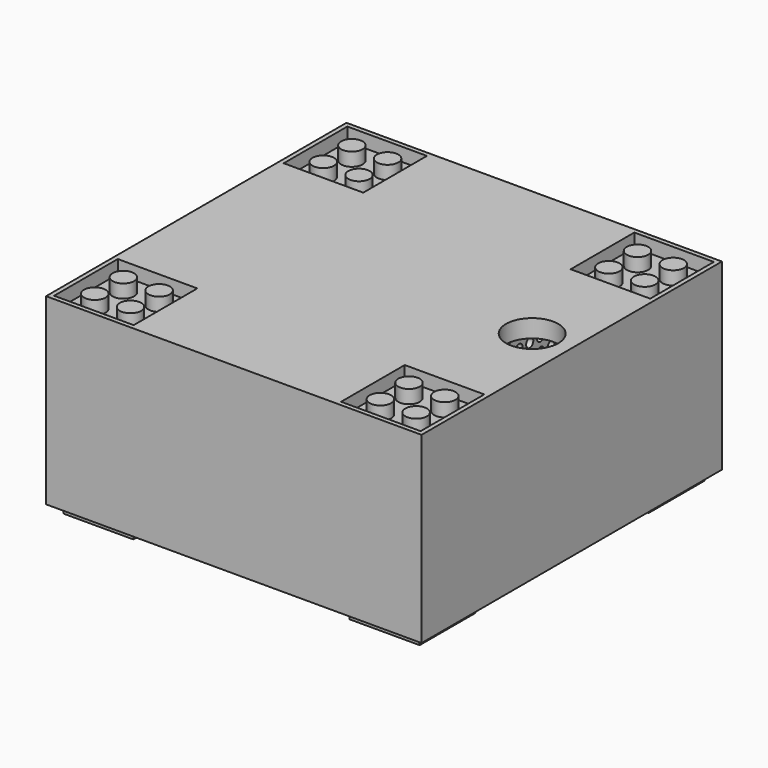
from build123d import *

# Parameters (mm, degrees)
SKETCH_W        = 84
SKETCH_H        = 84
PAD_DEPTH       = 40
SKETCH024_W     = 84
SKETCH024_H     = 84
SKETCH024_W_2   = 79.7
SKETCH024_H_2   = 79.7
POCKET_DEPTH    = 2
SKETCH016_W     = 13.4
SKETCH016_H     = 13.4
SKETCH016_R     = 3.25
POCKET001_DEPTH = 5
SKETCH017_R     = 2.4
PAD001_DEPTH    = 3
SKETCH018_W     = 84
SKETCH018_H     = 84
SKETCH018_W_2   = 17.8
SKETCH018_H_2   = 17.8
PAD002_DEPTH    = 3
SKETCH019_R     = 5.85
POCKET002_DEPTH = 43.001
POCKET003_DEPTH = 39
SKETCH005_W     = 2
SKETCH005_H     = 80
PAD003_DEPTH    = 37
SKETCH021_R     = 2
SKETCH021_R_2   = 2.25
POCKET004_DEPTH = 2
SKETCH025_R     = 2
SKETCH025_R_2   = 1
POCKET005_DEPTH = 2
SKETCH023_R     = 1
POCKET006_DEPTH = 2


with BuildPart() as part:
    # Sketch → Pad (new body)
    with BuildSketch(Plane.XY):
        Rectangle(SKETCH_W, SKETCH_H)
    extrude(amount=PAD_DEPTH)

    # Sketch024 → Pocket (cut)
    with BuildSketch(Plane(origin=(0, 0, 0), x_dir=(1, 0, 0), z_dir=(0, 0, -1))):
        Rectangle(SKETCH024_W, SKETCH024_H)
        Rectangle(SKETCH024_W_2, SKETCH024_H_2, mode=Mode.SUBTRACT)
    extrude(amount=-POCKET_DEPTH, mode=Mode.SUBTRACT)

    # Sketch016 → Pocket001 (cut)
    with BuildSketch(Plane(origin=(0, 0, 0), x_dir=(1, 0, 0), z_dir=(0, 0, -1))):
        with Locations((-31.95, 31.95)):
            Rectangle(SKETCH016_W, SKETCH016_H)
        with Locations((-31.95, 31.95)):
            Circle(SKETCH016_R, mode=Mode.SUBTRACT)
        with Locations((31.95, 31.95)):
            Rectangle(SKETCH016_W, SKETCH016_H)
        with Locations((31.95, 31.95)):
            Circle(SKETCH016_R, mode=Mode.SUBTRACT)
        with Locations((-31.95, -31.95)):
            Rectangle(SKETCH016_W, SKETCH016_H)
        with Locations((-31.95, -31.95)):
            Circle(SKETCH016_R, mode=Mode.SUBTRACT)
        with Locations((31.95, -31.95)):
            Rectangle(SKETCH016_W, SKETCH016_H)
        with Locations((31.95, -31.95)):
            Circle(SKETCH016_R, mode=Mode.SUBTRACT)
    extrude(amount=-POCKET001_DEPTH, mode=Mode.SUBTRACT)

    # Sketch017 → Pad001 (new body)
    with BuildSketch(Plane.XY.offset(40)):
        with Locations((-35.95, -35.95)):
            Circle(SKETCH017_R)
        with Locations((35.95, 35.95)):
            Circle(SKETCH017_R)
        with Locations((35.95, -35.95)):
            Circle(SKETCH017_R)
        with Locations((-35.95, 35.95)):
            Circle(SKETCH017_R)
        with Locations((-27.95, 35.95)):
            Circle(SKETCH017_R)
        with Locations((-27.95, 27.95)):
            Circle(SKETCH017_R)
        with Locations((27.95, 27.95)):
            Circle(SKETCH017_R)
        with Locations((27.95, 35.95)):
            Circle(SKETCH017_R)
        with Locations((-35.95, 27.95)):
            Circle(SKETCH017_R)
        with Locations((35.95, 27.95)):
            Circle(SKETCH017_R)
        with Locations((27.95, -27.95)):
            Circle(SKETCH017_R)
        with Locations((27.95, -35.95)):
            Circle(SKETCH017_R)
        with Locations((35.95, -27.95)):
            Circle(SKETCH017_R)
        with Locations((-27.95, -27.95)):
            Circle(SKETCH017_R)
        with Locations((-27.95, -35.95)):
            Circle(SKETCH017_R)
        with Locations((-35.95, -27.95)):
            Circle(SKETCH017_R)
    extrude(amount=PAD001_DEPTH)

    # Sketch018 → Pad002 (new body)
    with BuildSketch(Plane.XY.offset(40)):
        Rectangle(SKETCH018_W, SKETCH018_H)
        with Locations((-32.1, 32.1)):
            Rectangle(SKETCH018_W_2, SKETCH018_H_2, mode=Mode.SUBTRACT)
        with Locations((-32.1, -32.1)):
            Rectangle(SKETCH018_W_2, SKETCH018_H_2, mode=Mode.SUBTRACT)
        with Locations((32.1, 32.1)):
            Rectangle(SKETCH018_W_2, SKETCH018_H_2, mode=Mode.SUBTRACT)
        with Locations((32.1, -32.1)):
            Rectangle(SKETCH018_W_2, SKETCH018_H_2, mode=Mode.SUBTRACT)
    extrude(amount=PAD002_DEPTH)

    # Sketch019 → Pocket002 (cut, through all)
    with BuildSketch(Plane.XY.offset(43)):
        with Locations((33.15, 0)):
            Circle(SKETCH019_R)
    extrude(amount=-POCKET002_DEPTH, mode=Mode.SUBTRACT)

    # Sketch009 → Pocket003 (cut)
    with BuildSketch(Plane(origin=(0, 0, 0), x_dir=(1, 0, 0), z_dir=(0, 0, -1))):
        Polygon((-24.2, 40), (-24.2, 24.2), (-40, 24.2), (-40, -24.2), (-24.2, -24.2), (-24.2, -40), (24.2, -40), (24.2, -24.2), (40, -24.2), (40, 24.2), (24.2, 24.2), (24.2, 40), align=None)
    extrude(amount=-POCKET003_DEPTH, mode=Mode.SUBTRACT)

    # Sketch005 → Pad003 (new body)
    with BuildSketch(Plane(origin=(0, 0, 39), x_dir=(1, 0, 0), z_dir=(0, 0, -1))):
        with Locations((23.2, 0)):
            Rectangle(SKETCH005_W, SKETCH005_H)
        Rectangle(SKETCH005_W, SKETCH005_H)
        with Locations((-23.2, 0)):
            Rectangle(SKETCH005_W, SKETCH005_H)
    extrude(amount=PAD003_DEPTH)

    # Sketch021 → Pocket004 (cut)
    with BuildSketch(Plane.YZ.offset(-22.2)):
        with Locations((-22, 5)):
            Circle(SKETCH021_R)
        with Locations((-17.1, 5)):
            Circle(SKETCH021_R)
        with Locations((-12.2, 5)):
            Circle(SKETCH021_R)
        with Locations((-7.3, 5)):
            Circle(SKETCH021_R)
        with Locations((-2.4, 5)):
            Circle(SKETCH021_R)
        with Locations((2.5, 5)):
            Circle(SKETCH021_R)
        with Locations((7.4, 5)):
            Circle(SKETCH021_R)
        with Locations((12.3, 5)):
            Circle(SKETCH021_R)
        with Locations((17.2, 5)):
            Circle(SKETCH021_R)
        with Locations((22.1, 5)):
            Circle(SKETCH021_R)
        with Locations((-22, 10)):
            Circle(SKETCH021_R)
        with Locations((-17.1, 10)):
            Circle(SKETCH021_R)
        with Locations((-12.2, 10)):
            Circle(SKETCH021_R)
        with Locations((-7.3, 10)):
            Circle(SKETCH021_R)
        with Locations((-2.4, 10)):
            Circle(SKETCH021_R)
        with Locations((2.5, 10)):
            Circle(SKETCH021_R)
        with Locations((7.4, 10)):
            Circle(SKETCH021_R)
        with Locations((12.3, 10)):
            Circle(SKETCH021_R)
        with Locations((17.2, 10)):
            Circle(SKETCH021_R)
        with Locations((22.1, 10)):
            Circle(SKETCH021_R)
        with Locations((-22, 15)):
            Circle(SKETCH021_R)
        with Locations((-17.1, 15)):
            Circle(SKETCH021_R)
        with Locations((-12.2, 15)):
            Circle(SKETCH021_R)
        with Locations((-7.3, 15)):
            Circle(SKETCH021_R)
        with Locations((-2.4, 15)):
            Circle(SKETCH021_R)
        with Locations((2.5, 15)):
            Circle(SKETCH021_R)
        with Locations((7.4, 15)):
            Circle(SKETCH021_R)
        with Locations((12.3, 15)):
            Circle(SKETCH021_R)
        with Locations((17.2, 15)):
            Circle(SKETCH021_R)
        with Locations((22.1, 15)):
            Circle(SKETCH021_R)
        with Locations((-21.5, 20.25)):
            Circle(SKETCH021_R_2)
        with Locations((-15.35, 20.25)):
            Circle(SKETCH021_R_2)
        with Locations((-9.2, 20.25)):
            Circle(SKETCH021_R_2)
        with Locations((-3.05, 20.25)):
            Circle(SKETCH021_R_2)
        with Locations((3.1, 20.25)):
            Circle(SKETCH021_R_2)
        with Locations((9.25, 20.25)):
            Circle(SKETCH021_R_2)
        with Locations((15.4, 20.25)):
            Circle(SKETCH021_R_2)
        with Locations((21.55, 20.25)):
            Circle(SKETCH021_R_2)
        with Locations((-21.5, 25.75)):
            Circle(SKETCH021_R_2)
        with Locations((-15.35, 25.75)):
            Circle(SKETCH021_R_2)
        with Locations((-9.2, 25.75)):
            Circle(SKETCH021_R_2)
        with Locations((-3.05, 25.75)):
            Circle(SKETCH021_R_2)
        with Locations((3.1, 25.75)):
            Circle(SKETCH021_R_2)
        with Locations((9.25, 25.75)):
            Circle(SKETCH021_R_2)
        with Locations((15.4, 25.75)):
            Circle(SKETCH021_R_2)
        with Locations((21.55, 25.75)):
            Circle(SKETCH021_R_2)
        with Locations((-21.5, 31.25)):
            Circle(SKETCH021_R_2)
        with Locations((-15.35, 31.25)):
            Circle(SKETCH021_R_2)
        with Locations((-9.2, 31.25)):
            Circle(SKETCH021_R_2)
        with Locations((-3.05, 31.25)):
            Circle(SKETCH021_R_2)
        with Locations((3.1, 31.25)):
            Circle(SKETCH021_R_2)
        with Locations((9.25, 31.25)):
            Circle(SKETCH021_R_2)
        with Locations((15.4, 31.25)):
            Circle(SKETCH021_R_2)
        with Locations((21.55, 31.25)):
            Circle(SKETCH021_R_2)
        with Locations((-21.5, 36.75)):
            Circle(SKETCH021_R_2)
        with Locations((-15.35, 36.75)):
            Circle(SKETCH021_R_2)
        with Locations((-9.2, 36.75)):
            Circle(SKETCH021_R_2)
        with Locations((-3.05, 36.75)):
            Circle(SKETCH021_R_2)
        with Locations((3.1, 36.75)):
            Circle(SKETCH021_R_2)
        with Locations((9.25, 36.75)):
            Circle(SKETCH021_R_2)
        with Locations((15.4, 36.75)):
            Circle(SKETCH021_R_2)
        with Locations((21.55, 36.75)):
            Circle(SKETCH021_R_2)
    extrude(amount=-POCKET004_DEPTH, mode=Mode.SUBTRACT)

    # Sketch025 → Pocket005 (cut)
    with BuildSketch(Plane.YZ.offset(1)):
        with Locations((-37.5, 19)):
            Circle(SKETCH025_R)
        with Locations((-32.5, 19)):
            Circle(SKETCH025_R)
        with Locations((-27.5, 19)):
            Circle(SKETCH025_R)
        with Locations((-22.5, 19)):
            Circle(SKETCH025_R)
        with Locations((-17.5, 19)):
            Circle(SKETCH025_R)
        with Locations((-12.5, 19)):
            Circle(SKETCH025_R)
        with Locations((-7.5, 19)):
            Circle(SKETCH025_R)
        with Locations((-2.5, 19)):
            Circle(SKETCH025_R)
        with Locations((2.5, 19)):
            Circle(SKETCH025_R)
        with Locations((7.5, 19)):
            Circle(SKETCH025_R)
        with Locations((12.5, 19)):
            Circle(SKETCH025_R)
        with Locations((17.5, 19)):
            Circle(SKETCH025_R)
        with Locations((22.5, 19)):
            Circle(SKETCH025_R)
        with Locations((27.5, 19)):
            Circle(SKETCH025_R)
        with Locations((32.5, 19)):
            Circle(SKETCH025_R)
        with Locations((37.5, 19)):
            Circle(SKETCH025_R)
        with Locations((-37.5, 23.5)):
            Circle(SKETCH025_R)
        with Locations((-32.5, 23.5)):
            Circle(SKETCH025_R)
        with Locations((-27.5, 23.5)):
            Circle(SKETCH025_R)
        with Locations((-22.5, 23.5)):
            Circle(SKETCH025_R)
        with Locations((-17.5, 23.5)):
            Circle(SKETCH025_R)
        with Locations((-12.5, 23.5)):
            Circle(SKETCH025_R)
        with Locations((-7.5, 23.5)):
            Circle(SKETCH025_R)
        with Locations((-2.5, 23.5)):
            Circle(SKETCH025_R)
        with Locations((2.5, 23.5)):
            Circle(SKETCH025_R)
        with Locations((7.5, 23.5)):
            Circle(SKETCH025_R)
        with Locations((12.5, 23.5)):
            Circle(SKETCH025_R)
        with Locations((17.5, 23.5)):
            Circle(SKETCH025_R)
        with Locations((22.5, 23.5)):
            Circle(SKETCH025_R)
        with Locations((27.5, 23.5)):
            Circle(SKETCH025_R)
        with Locations((32.5, 23.5)):
            Circle(SKETCH025_R)
        with Locations((37.5, 23.5)):
            Circle(SKETCH025_R)
        with Locations((-37.5, 28)):
            Circle(SKETCH025_R)
        with Locations((-32.5, 28)):
            Circle(SKETCH025_R)
        with Locations((-27.5, 28)):
            Circle(SKETCH025_R)
        with Locations((-22.5, 28)):
            Circle(SKETCH025_R)
        with Locations((-17.5, 28)):
            Circle(SKETCH025_R)
        with Locations((-12.5, 28)):
            Circle(SKETCH025_R)
        with Locations((-7.5, 28)):
            Circle(SKETCH025_R)
        with Locations((-2.5, 28)):
            Circle(SKETCH025_R)
        with Locations((2.5, 28)):
            Circle(SKETCH025_R)
        with Locations((7.5, 28)):
            Circle(SKETCH025_R)
        with Locations((12.5, 28)):
            Circle(SKETCH025_R)
        with Locations((17.5, 28)):
            Circle(SKETCH025_R)
        with Locations((22.5, 28)):
            Circle(SKETCH025_R)
        with Locations((27.5, 28)):
            Circle(SKETCH025_R)
        with Locations((32.5, 28)):
            Circle(SKETCH025_R)
        with Locations((37.5, 28)):
            Circle(SKETCH025_R)
        with Locations((-37.5, 32.5)):
            Circle(SKETCH025_R)
        with Locations((-32.5, 32.5)):
            Circle(SKETCH025_R)
        with Locations((-27.5, 32.5)):
            Circle(SKETCH025_R)
        with Locations((-22.5, 32.5)):
            Circle(SKETCH025_R)
        with Locations((-17.5, 32.5)):
            Circle(SKETCH025_R)
        with Locations((-12.5, 32.5)):
            Circle(SKETCH025_R)
        with Locations((-7.5, 32.5)):
            Circle(SKETCH025_R)
        with Locations((-2.5, 32.5)):
            Circle(SKETCH025_R)
        with Locations((2.5, 32.5)):
            Circle(SKETCH025_R)
        with Locations((7.5, 32.5)):
            Circle(SKETCH025_R)
        with Locations((12.5, 32.5)):
            Circle(SKETCH025_R)
        with Locations((17.5, 32.5)):
            Circle(SKETCH025_R)
        with Locations((22.5, 32.5)):
            Circle(SKETCH025_R)
        with Locations((27.5, 32.5)):
            Circle(SKETCH025_R)
        with Locations((32.5, 32.5)):
            Circle(SKETCH025_R)
        with Locations((37.5, 32.5)):
            Circle(SKETCH025_R)
        with Locations((-37.5, 37)):
            Circle(SKETCH025_R)
        with Locations((-32.5, 37)):
            Circle(SKETCH025_R)
        with Locations((-27.5, 37)):
            Circle(SKETCH025_R)
        with Locations((-22.5, 37)):
            Circle(SKETCH025_R)
        with Locations((-17.5, 37)):
            Circle(SKETCH025_R)
        with Locations((-12.5, 37)):
            Circle(SKETCH025_R)
        with Locations((-7.5, 37)):
            Circle(SKETCH025_R)
        with Locations((-2.5, 37)):
            Circle(SKETCH025_R)
        with Locations((2.5, 37)):
            Circle(SKETCH025_R)
        with Locations((7.5, 37)):
            Circle(SKETCH025_R)
        with Locations((12.5, 37)):
            Circle(SKETCH025_R)
        with Locations((17.5, 37)):
            Circle(SKETCH025_R)
        with Locations((22.5, 37)):
            Circle(SKETCH025_R)
        with Locations((27.5, 37)):
            Circle(SKETCH025_R)
        with Locations((32.5, 37)):
            Circle(SKETCH025_R)
        with Locations((37.5, 37)):
            Circle(SKETCH025_R)
        with Locations((-39, 3.5)):
            Circle(SKETCH025_R_2)
        with Locations((-36, 3.5)):
            Circle(SKETCH025_R_2)
        with Locations((-33, 3.5)):
            Circle(SKETCH025_R_2)
        with Locations((-30, 3.5)):
            Circle(SKETCH025_R_2)
        with Locations((-27, 3.5)):
            Circle(SKETCH025_R_2)
        with Locations((-24, 3.5)):
            Circle(SKETCH025_R_2)
        with Locations((-21, 3.5)):
            Circle(SKETCH025_R_2)
        with Locations((-18, 3.5)):
            Circle(SKETCH025_R_2)
        with Locations((-15, 3.5)):
            Circle(SKETCH025_R_2)
        with Locations((-12, 3.5)):
            Circle(SKETCH025_R_2)
        with Locations((-9, 3.5)):
            Circle(SKETCH025_R_2)
        with Locations((-6, 3.5)):
            Circle(SKETCH025_R_2)
        with Locations((-3, 3.5)):
            Circle(SKETCH025_R_2)
        with Locations((0, 3.5)):
            Circle(SKETCH025_R_2)
        with Locations((3, 3.5)):
            Circle(SKETCH025_R_2)
        with Locations((6, 3.5)):
            Circle(SKETCH025_R_2)
        with Locations((9, 3.5)):
            Circle(SKETCH025_R_2)
        with Locations((12, 3.5)):
            Circle(SKETCH025_R_2)
        with Locations((15, 3.5)):
            Circle(SKETCH025_R_2)
        with Locations((18, 3.5)):
            Circle(SKETCH025_R_2)
        with Locations((21, 3.5)):
            Circle(SKETCH025_R_2)
        with Locations((24, 3.5)):
            Circle(SKETCH025_R_2)
        with Locations((27, 3.5)):
            Circle(SKETCH025_R_2)
        with Locations((30, 3.5)):
            Circle(SKETCH025_R_2)
        with Locations((33, 3.5)):
            Circle(SKETCH025_R_2)
        with Locations((36, 3.5)):
            Circle(SKETCH025_R_2)
        with Locations((39, 3.5)):
            Circle(SKETCH025_R_2)
        with Locations((-39, 6.5)):
            Circle(SKETCH025_R_2)
        with Locations((-36, 6.5)):
            Circle(SKETCH025_R_2)
        with Locations((-33, 6.5)):
            Circle(SKETCH025_R_2)
        with Locations((-30, 6.5)):
            Circle(SKETCH025_R_2)
        with Locations((-27, 6.5)):
            Circle(SKETCH025_R_2)
        with Locations((-24, 6.5)):
            Circle(SKETCH025_R_2)
        with Locations((-21, 6.5)):
            Circle(SKETCH025_R_2)
        with Locations((-18, 6.5)):
            Circle(SKETCH025_R_2)
        with Locations((-15, 6.5)):
            Circle(SKETCH025_R_2)
        with Locations((-12, 6.5)):
            Circle(SKETCH025_R_2)
        with Locations((-9, 6.5)):
            Circle(SKETCH025_R_2)
        with Locations((-6, 6.5)):
            Circle(SKETCH025_R_2)
        with Locations((-3, 6.5)):
            Circle(SKETCH025_R_2)
        with Locations((0, 6.5)):
            Circle(SKETCH025_R_2)
        with Locations((3, 6.5)):
            Circle(SKETCH025_R_2)
        with Locations((6, 6.5)):
            Circle(SKETCH025_R_2)
        with Locations((9, 6.5)):
            Circle(SKETCH025_R_2)
        with Locations((12, 6.5)):
            Circle(SKETCH025_R_2)
        with Locations((15, 6.5)):
            Circle(SKETCH025_R_2)
        with Locations((18, 6.5)):
            Circle(SKETCH025_R_2)
        with Locations((21, 6.5)):
            Circle(SKETCH025_R_2)
        with Locations((24, 6.5)):
            Circle(SKETCH025_R_2)
        with Locations((27, 6.5)):
            Circle(SKETCH025_R_2)
        with Locations((30, 6.5)):
            Circle(SKETCH025_R_2)
        with Locations((33, 6.5)):
            Circle(SKETCH025_R_2)
        with Locations((36, 6.5)):
            Circle(SKETCH025_R_2)
        with Locations((39, 6.5)):
            Circle(SKETCH025_R_2)
        with Locations((-39, 9.5)):
            Circle(SKETCH025_R_2)
        with Locations((-36, 9.5)):
            Circle(SKETCH025_R_2)
        with Locations((-33, 9.5)):
            Circle(SKETCH025_R_2)
        with Locations((-30, 9.5)):
            Circle(SKETCH025_R_2)
        with Locations((-27, 9.5)):
            Circle(SKETCH025_R_2)
        with Locations((-24, 9.5)):
            Circle(SKETCH025_R_2)
        with Locations((-21, 9.5)):
            Circle(SKETCH025_R_2)
        with Locations((-18, 9.5)):
            Circle(SKETCH025_R_2)
        with Locations((-15, 9.5)):
            Circle(SKETCH025_R_2)
        with Locations((-12, 9.5)):
            Circle(SKETCH025_R_2)
        with Locations((-9, 9.5)):
            Circle(SKETCH025_R_2)
        with Locations((-6, 9.5)):
            Circle(SKETCH025_R_2)
        with Locations((-3, 9.5)):
            Circle(SKETCH025_R_2)
        with Locations((0, 9.5)):
            Circle(SKETCH025_R_2)
        with Locations((3, 9.5)):
            Circle(SKETCH025_R_2)
        with Locations((6, 9.5)):
            Circle(SKETCH025_R_2)
        with Locations((9, 9.5)):
            Circle(SKETCH025_R_2)
        with Locations((12, 9.5)):
            Circle(SKETCH025_R_2)
        with Locations((15, 9.5)):
            Circle(SKETCH025_R_2)
        with Locations((18, 9.5)):
            Circle(SKETCH025_R_2)
        with Locations((21, 9.5)):
            Circle(SKETCH025_R_2)
        with Locations((24, 9.5)):
            Circle(SKETCH025_R_2)
        with Locations((27, 9.5)):
            Circle(SKETCH025_R_2)
        with Locations((30, 9.5)):
            Circle(SKETCH025_R_2)
        with Locations((33, 9.5)):
            Circle(SKETCH025_R_2)
        with Locations((36, 9.5)):
            Circle(SKETCH025_R_2)
        with Locations((39, 9.5)):
            Circle(SKETCH025_R_2)
        with Locations((-39, 12.5)):
            Circle(SKETCH025_R_2)
        with Locations((-36, 12.5)):
            Circle(SKETCH025_R_2)
        with Locations((-33, 12.5)):
            Circle(SKETCH025_R_2)
        with Locations((-30, 12.5)):
            Circle(SKETCH025_R_2)
        with Locations((-27, 12.5)):
            Circle(SKETCH025_R_2)
        with Locations((-24, 12.5)):
            Circle(SKETCH025_R_2)
        with Locations((-21, 12.5)):
            Circle(SKETCH025_R_2)
        with Locations((-18, 12.5)):
            Circle(SKETCH025_R_2)
        with Locations((-15, 12.5)):
            Circle(SKETCH025_R_2)
        with Locations((-12, 12.5)):
            Circle(SKETCH025_R_2)
        with Locations((-9, 12.5)):
            Circle(SKETCH025_R_2)
        with Locations((-6, 12.5)):
            Circle(SKETCH025_R_2)
        with Locations((-3, 12.5)):
            Circle(SKETCH025_R_2)
        with Locations((0, 12.5)):
            Circle(SKETCH025_R_2)
        with Locations((3, 12.5)):
            Circle(SKETCH025_R_2)
        with Locations((6, 12.5)):
            Circle(SKETCH025_R_2)
        with Locations((9, 12.5)):
            Circle(SKETCH025_R_2)
        with Locations((12, 12.5)):
            Circle(SKETCH025_R_2)
        with Locations((15, 12.5)):
            Circle(SKETCH025_R_2)
        with Locations((18, 12.5)):
            Circle(SKETCH025_R_2)
        with Locations((21, 12.5)):
            Circle(SKETCH025_R_2)
        with Locations((24, 12.5)):
            Circle(SKETCH025_R_2)
        with Locations((27, 12.5)):
            Circle(SKETCH025_R_2)
        with Locations((30, 12.5)):
            Circle(SKETCH025_R_2)
        with Locations((33, 12.5)):
            Circle(SKETCH025_R_2)
        with Locations((36, 12.5)):
            Circle(SKETCH025_R_2)
        with Locations((39, 12.5)):
            Circle(SKETCH025_R_2)
        with Locations((-39, 15.5)):
            Circle(SKETCH025_R_2)
        with Locations((-36, 15.5)):
            Circle(SKETCH025_R_2)
        with Locations((-33, 15.5)):
            Circle(SKETCH025_R_2)
        with Locations((-30, 15.5)):
            Circle(SKETCH025_R_2)
        with Locations((-27, 15.5)):
            Circle(SKETCH025_R_2)
        with Locations((-24, 15.5)):
            Circle(SKETCH025_R_2)
        with Locations((-21, 15.5)):
            Circle(SKETCH025_R_2)
        with Locations((-18, 15.5)):
            Circle(SKETCH025_R_2)
        with Locations((-15, 15.5)):
            Circle(SKETCH025_R_2)
        with Locations((-12, 15.5)):
            Circle(SKETCH025_R_2)
        with Locations((-9, 15.5)):
            Circle(SKETCH025_R_2)
        with Locations((-6, 15.5)):
            Circle(SKETCH025_R_2)
        with Locations((-3, 15.5)):
            Circle(SKETCH025_R_2)
        with Locations((0, 15.5)):
            Circle(SKETCH025_R_2)
        with Locations((3, 15.5)):
            Circle(SKETCH025_R_2)
        with Locations((6, 15.5)):
            Circle(SKETCH025_R_2)
        with Locations((9, 15.5)):
            Circle(SKETCH025_R_2)
        with Locations((12, 15.5)):
            Circle(SKETCH025_R_2)
        with Locations((15, 15.5)):
            Circle(SKETCH025_R_2)
        with Locations((18, 15.5)):
            Circle(SKETCH025_R_2)
        with Locations((21, 15.5)):
            Circle(SKETCH025_R_2)
        with Locations((24, 15.5)):
            Circle(SKETCH025_R_2)
        with Locations((27, 15.5)):
            Circle(SKETCH025_R_2)
        with Locations((30, 15.5)):
            Circle(SKETCH025_R_2)
        with Locations((33, 15.5)):
            Circle(SKETCH025_R_2)
        with Locations((36, 15.5)):
            Circle(SKETCH025_R_2)
        with Locations((39, 15.5)):
            Circle(SKETCH025_R_2)
    extrude(amount=-POCKET005_DEPTH, mode=Mode.SUBTRACT)

    # Sketch023 → Pocket006 (cut)
    with BuildSketch(Plane.YZ.offset(24.2)):
        with Locations((-22.5, 4)):
            Circle(SKETCH023_R)
        with Locations((-19.5, 4)):
            Circle(SKETCH023_R)
        with Locations((-16.5, 4)):
            Circle(SKETCH023_R)
        with Locations((-13.5, 4)):
            Circle(SKETCH023_R)
        with Locations((-10.5, 4)):
            Circle(SKETCH023_R)
        with Locations((-7.5, 4)):
            Circle(SKETCH023_R)
        with Locations((-4.5, 4)):
            Circle(SKETCH023_R)
        with Locations((-1.5, 4)):
            Circle(SKETCH023_R)
        with Locations((1.5, 4)):
            Circle(SKETCH023_R)
        with Locations((4.5, 4)):
            Circle(SKETCH023_R)
        with Locations((7.5, 4)):
            Circle(SKETCH023_R)
        with Locations((10.5, 4)):
            Circle(SKETCH023_R)
        with Locations((13.5, 4)):
            Circle(SKETCH023_R)
        with Locations((16.5, 4)):
            Circle(SKETCH023_R)
        with Locations((19.5, 4)):
            Circle(SKETCH023_R)
        with Locations((22.5, 4)):
            Circle(SKETCH023_R)
        with Locations((-22.5, 7)):
            Circle(SKETCH023_R)
        with Locations((-19.5, 7)):
            Circle(SKETCH023_R)
        with Locations((-16.5, 7)):
            Circle(SKETCH023_R)
        with Locations((-13.5, 7)):
            Circle(SKETCH023_R)
        with Locations((-10.5, 7)):
            Circle(SKETCH023_R)
        with Locations((-7.5, 7)):
            Circle(SKETCH023_R)
        with Locations((-4.5, 7)):
            Circle(SKETCH023_R)
        with Locations((-1.5, 7)):
            Circle(SKETCH023_R)
        with Locations((1.5, 7)):
            Circle(SKETCH023_R)
        with Locations((4.5, 7)):
            Circle(SKETCH023_R)
        with Locations((7.5, 7)):
            Circle(SKETCH023_R)
        with Locations((10.5, 7)):
            Circle(SKETCH023_R)
        with Locations((13.5, 7)):
            Circle(SKETCH023_R)
        with Locations((16.5, 7)):
            Circle(SKETCH023_R)
        with Locations((19.5, 7)):
            Circle(SKETCH023_R)
        with Locations((22.5, 7)):
            Circle(SKETCH023_R)
        with Locations((-22.5, 10)):
            Circle(SKETCH023_R)
        with Locations((-19.5, 10)):
            Circle(SKETCH023_R)
        with Locations((-16.5, 10)):
            Circle(SKETCH023_R)
        with Locations((-13.5, 10)):
            Circle(SKETCH023_R)
        with Locations((-10.5, 10)):
            Circle(SKETCH023_R)
        with Locations((-7.5, 10)):
            Circle(SKETCH023_R)
        with Locations((-4.5, 10)):
            Circle(SKETCH023_R)
        with Locations((-1.5, 10)):
            Circle(SKETCH023_R)
        with Locations((1.5, 10)):
            Circle(SKETCH023_R)
        with Locations((4.5, 10)):
            Circle(SKETCH023_R)
        with Locations((7.5, 10)):
            Circle(SKETCH023_R)
        with Locations((10.5, 10)):
            Circle(SKETCH023_R)
        with Locations((13.5, 10)):
            Circle(SKETCH023_R)
        with Locations((16.5, 10)):
            Circle(SKETCH023_R)
        with Locations((19.5, 10)):
            Circle(SKETCH023_R)
        with Locations((22.5, 10)):
            Circle(SKETCH023_R)
        with Locations((-22.5, 13)):
            Circle(SKETCH023_R)
        with Locations((-19.5, 13)):
            Circle(SKETCH023_R)
        with Locations((-16.5, 13)):
            Circle(SKETCH023_R)
        with Locations((-13.5, 13)):
            Circle(SKETCH023_R)
        with Locations((-10.5, 13)):
            Circle(SKETCH023_R)
        with Locations((-7.5, 13)):
            Circle(SKETCH023_R)
        with Locations((-4.5, 13)):
            Circle(SKETCH023_R)
        with Locations((-1.5, 13)):
            Circle(SKETCH023_R)
        with Locations((1.5, 13)):
            Circle(SKETCH023_R)
        with Locations((4.5, 13)):
            Circle(SKETCH023_R)
        with Locations((7.5, 13)):
            Circle(SKETCH023_R)
        with Locations((10.5, 13)):
            Circle(SKETCH023_R)
        with Locations((13.5, 13)):
            Circle(SKETCH023_R)
        with Locations((16.5, 13)):
            Circle(SKETCH023_R)
        with Locations((19.5, 13)):
            Circle(SKETCH023_R)
        with Locations((22.5, 13)):
            Circle(SKETCH023_R)
        with Locations((-22.5, 16)):
            Circle(SKETCH023_R)
        with Locations((-19.5, 16)):
            Circle(SKETCH023_R)
        with Locations((-16.5, 16)):
            Circle(SKETCH023_R)
        with Locations((-13.5, 16)):
            Circle(SKETCH023_R)
        with Locations((-10.5, 16)):
            Circle(SKETCH023_R)
        with Locations((-7.5, 16)):
            Circle(SKETCH023_R)
        with Locations((-4.5, 16)):
            Circle(SKETCH023_R)
        with Locations((-1.5, 16)):
            Circle(SKETCH023_R)
        with Locations((1.5, 16)):
            Circle(SKETCH023_R)
        with Locations((4.5, 16)):
            Circle(SKETCH023_R)
        with Locations((7.5, 16)):
            Circle(SKETCH023_R)
        with Locations((10.5, 16)):
            Circle(SKETCH023_R)
        with Locations((13.5, 16)):
            Circle(SKETCH023_R)
        with Locations((16.5, 16)):
            Circle(SKETCH023_R)
        with Locations((19.5, 16)):
            Circle(SKETCH023_R)
        with Locations((22.5, 16)):
            Circle(SKETCH023_R)
        with Locations((-22.5, 19)):
            Circle(SKETCH023_R)
        with Locations((-19.5, 19)):
            Circle(SKETCH023_R)
        with Locations((-16.5, 19)):
            Circle(SKETCH023_R)
        with Locations((-13.5, 19)):
            Circle(SKETCH023_R)
        with Locations((-10.5, 19)):
            Circle(SKETCH023_R)
        with Locations((-7.5, 19)):
            Circle(SKETCH023_R)
        with Locations((-4.5, 19)):
            Circle(SKETCH023_R)
        with Locations((-1.5, 19)):
            Circle(SKETCH023_R)
        with Locations((1.5, 19)):
            Circle(SKETCH023_R)
        with Locations((4.5, 19)):
            Circle(SKETCH023_R)
        with Locations((7.5, 19)):
            Circle(SKETCH023_R)
        with Locations((10.5, 19)):
            Circle(SKETCH023_R)
        with Locations((13.5, 19)):
            Circle(SKETCH023_R)
        with Locations((16.5, 19)):
            Circle(SKETCH023_R)
        with Locations((19.5, 19)):
            Circle(SKETCH023_R)
        with Locations((22.5, 19)):
            Circle(SKETCH023_R)
        with Locations((-22.5, 22)):
            Circle(SKETCH023_R)
        with Locations((-19.5, 22)):
            Circle(SKETCH023_R)
        with Locations((-16.5, 22)):
            Circle(SKETCH023_R)
        with Locations((-13.5, 22)):
            Circle(SKETCH023_R)
        with Locations((-10.5, 22)):
            Circle(SKETCH023_R)
        with Locations((-7.5, 22)):
            Circle(SKETCH023_R)
        with Locations((-4.5, 22)):
            Circle(SKETCH023_R)
        with Locations((-1.5, 22)):
            Circle(SKETCH023_R)
        with Locations((1.5, 22)):
            Circle(SKETCH023_R)
        with Locations((4.5, 22)):
            Circle(SKETCH023_R)
        with Locations((7.5, 22)):
            Circle(SKETCH023_R)
        with Locations((10.5, 22)):
            Circle(SKETCH023_R)
        with Locations((13.5, 22)):
            Circle(SKETCH023_R)
        with Locations((16.5, 22)):
            Circle(SKETCH023_R)
        with Locations((19.5, 22)):
            Circle(SKETCH023_R)
        with Locations((22.5, 22)):
            Circle(SKETCH023_R)
        with Locations((-22.5, 25)):
            Circle(SKETCH023_R)
        with Locations((-19.5, 25)):
            Circle(SKETCH023_R)
        with Locations((-16.5, 25)):
            Circle(SKETCH023_R)
        with Locations((-13.5, 25)):
            Circle(SKETCH023_R)
        with Locations((-10.5, 25)):
            Circle(SKETCH023_R)
        with Locations((-7.5, 25)):
            Circle(SKETCH023_R)
        with Locations((-4.5, 25)):
            Circle(SKETCH023_R)
        with Locations((-1.5, 25)):
            Circle(SKETCH023_R)
        with Locations((1.5, 25)):
            Circle(SKETCH023_R)
        with Locations((4.5, 25)):
            Circle(SKETCH023_R)
        with Locations((7.5, 25)):
            Circle(SKETCH023_R)
        with Locations((10.5, 25)):
            Circle(SKETCH023_R)
        with Locations((13.5, 25)):
            Circle(SKETCH023_R)
        with Locations((16.5, 25)):
            Circle(SKETCH023_R)
        with Locations((19.5, 25)):
            Circle(SKETCH023_R)
        with Locations((22.5, 25)):
            Circle(SKETCH023_R)
        with Locations((-22.5, 28)):
            Circle(SKETCH023_R)
        with Locations((-19.5, 28)):
            Circle(SKETCH023_R)
        with Locations((-16.5, 28)):
            Circle(SKETCH023_R)
        with Locations((-13.5, 28)):
            Circle(SKETCH023_R)
        with Locations((-10.5, 28)):
            Circle(SKETCH023_R)
        with Locations((-7.5, 28)):
            Circle(SKETCH023_R)
        with Locations((-4.5, 28)):
            Circle(SKETCH023_R)
        with Locations((-1.5, 28)):
            Circle(SKETCH023_R)
        with Locations((1.5, 28)):
            Circle(SKETCH023_R)
        with Locations((4.5, 28)):
            Circle(SKETCH023_R)
        with Locations((7.5, 28)):
            Circle(SKETCH023_R)
        with Locations((10.5, 28)):
            Circle(SKETCH023_R)
        with Locations((13.5, 28)):
            Circle(SKETCH023_R)
        with Locations((16.5, 28)):
            Circle(SKETCH023_R)
        with Locations((19.5, 28)):
            Circle(SKETCH023_R)
        with Locations((22.5, 28)):
            Circle(SKETCH023_R)
        with Locations((-22.5, 31)):
            Circle(SKETCH023_R)
        with Locations((-19.5, 31)):
            Circle(SKETCH023_R)
        with Locations((-16.5, 31)):
            Circle(SKETCH023_R)
        with Locations((-13.5, 31)):
            Circle(SKETCH023_R)
        with Locations((-10.5, 31)):
            Circle(SKETCH023_R)
        with Locations((-7.5, 31)):
            Circle(SKETCH023_R)
        with Locations((-4.5, 31)):
            Circle(SKETCH023_R)
        with Locations((-1.5, 31)):
            Circle(SKETCH023_R)
        with Locations((1.5, 31)):
            Circle(SKETCH023_R)
        with Locations((4.5, 31)):
            Circle(SKETCH023_R)
        with Locations((7.5, 31)):
            Circle(SKETCH023_R)
        with Locations((10.5, 31)):
            Circle(SKETCH023_R)
        with Locations((13.5, 31)):
            Circle(SKETCH023_R)
        with Locations((16.5, 31)):
            Circle(SKETCH023_R)
        with Locations((19.5, 31)):
            Circle(SKETCH023_R)
        with Locations((22.5, 31)):
            Circle(SKETCH023_R)
        with Locations((-22.5, 34)):
            Circle(SKETCH023_R)
        with Locations((-19.5, 34)):
            Circle(SKETCH023_R)
        with Locations((-16.5, 34)):
            Circle(SKETCH023_R)
        with Locations((-13.5, 34)):
            Circle(SKETCH023_R)
        with Locations((-10.5, 34)):
            Circle(SKETCH023_R)
        with Locations((-7.5, 34)):
            Circle(SKETCH023_R)
        with Locations((-4.5, 34)):
            Circle(SKETCH023_R)
        with Locations((-1.5, 34)):
            Circle(SKETCH023_R)
        with Locations((1.5, 34)):
            Circle(SKETCH023_R)
        with Locations((4.5, 34)):
            Circle(SKETCH023_R)
        with Locations((7.5, 34)):
            Circle(SKETCH023_R)
        with Locations((10.5, 34)):
            Circle(SKETCH023_R)
        with Locations((13.5, 34)):
            Circle(SKETCH023_R)
        with Locations((16.5, 34)):
            Circle(SKETCH023_R)
        with Locations((19.5, 34)):
            Circle(SKETCH023_R)
        with Locations((22.5, 34)):
            Circle(SKETCH023_R)
        with Locations((-22.5, 37)):
            Circle(SKETCH023_R)
        with Locations((-19.5, 37)):
            Circle(SKETCH023_R)
        with Locations((-16.5, 37)):
            Circle(SKETCH023_R)
        with Locations((-13.5, 37)):
            Circle(SKETCH023_R)
        with Locations((-10.5, 37)):
            Circle(SKETCH023_R)
        with Locations((-7.5, 37)):
            Circle(SKETCH023_R)
        with Locations((-4.5, 37)):
            Circle(SKETCH023_R)
        with Locations((-1.5, 37)):
            Circle(SKETCH023_R)
        with Locations((1.5, 37)):
            Circle(SKETCH023_R)
        with Locations((4.5, 37)):
            Circle(SKETCH023_R)
        with Locations((7.5, 37)):
            Circle(SKETCH023_R)
        with Locations((10.5, 37)):
            Circle(SKETCH023_R)
        with Locations((13.5, 37)):
            Circle(SKETCH023_R)
        with Locations((16.5, 37)):
            Circle(SKETCH023_R)
        with Locations((19.5, 37)):
            Circle(SKETCH023_R)
        with Locations((22.5, 37)):
            Circle(SKETCH023_R)
    extrude(amount=-POCKET006_DEPTH, mode=Mode.SUBTRACT)


solid = part.part
